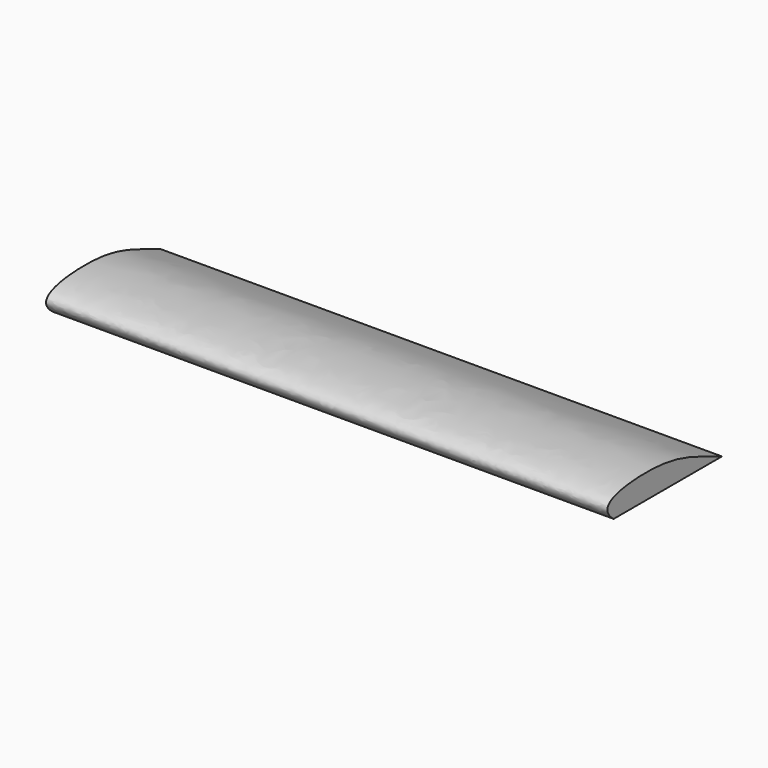
from build123d import *

# Parameters (mm, degrees)
F1_DEPTH = 895.35


with BuildPart() as f1:
    # F0 (on Right) → F1 (new body)
    with BuildSketch(Plane.YZ):
        with BuildLine():
            add(Edge.make_bspline(
                [(-215.9, 0), (-254.8283100128, 31.1331100762), (-109.1444188426, 50.3687896295), (-55.7836709922, 22.2630112389), (0, 0)],
                knots=[0, 0, 0, 0, 0.4115757107, 1, 1, 1, 1], degree=3))
            Line((-215.9, 0), (0, 0))
        make_face()
    extrude(amount=F1_DEPTH)


solid = f1.part
